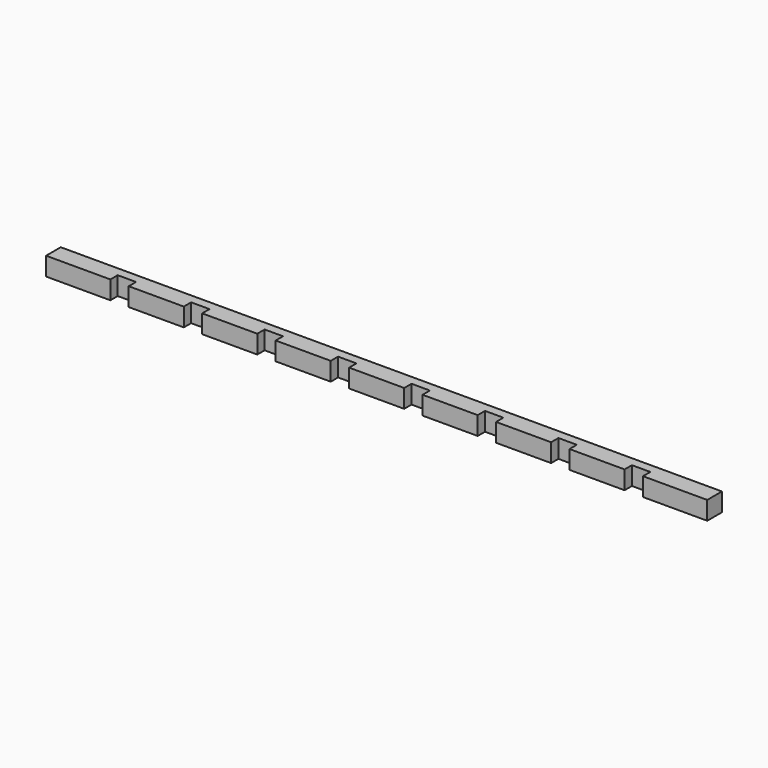
from build123d import *

# Parameters (mm, degrees)
F1_DEPTH = 25.4
F0_W     = 482.6
F0_H     = 50.8
F0_W_2   = 152.4
F2_W     = 2438.4
F2_H     = 50.8
F3_DEPTH = 25.4
F5_W     = 304.8
F5_H     = 50.8
F6_DEPTH = 63.5
F7_ANGLE = -90


with BuildPart() as f1:
    # F0 (on Top) → F1 (new body)
    with BuildSketch(Plane.XY):
        Polygon((-76.2, 0), (0, 0), (76.2, 0), (76.2, 50.8), (-76.2, 50.8), align=None)
    extrude(amount=F1_DEPTH)


with BuildPart() as f1b:
    # F0 (on Top) → F1, piece 2 (new body)
    with BuildSketch(Plane.XY):
        with Locations((-977.9, 25.4)):
            Rectangle(F0_W, F0_H)
    extrude(amount=F1_DEPTH)


with BuildPart() as f1c:
    # F0 (on Top) → F1, piece 3 (new body)
    with BuildSketch(Plane.XY):
        with Locations((977.9, 25.4)):
            Rectangle(F0_W, F0_H)
    extrude(amount=F1_DEPTH)


with BuildPart() as f1d:
    # F0 (on Top) → F1, piece 4 (new body)
    with BuildSketch(Plane.XY):
        with Locations((203.2, 25.4)):
            Rectangle(F0_W_2, F0_H)
    extrude(amount=F1_DEPTH)


with BuildPart() as f1e:
    # F0 (on Top) → F1, piece 5 (new body)
    with BuildSketch(Plane.XY):
        with Locations((406.4, 25.4)):
            Rectangle(F0_W_2, F0_H)
    extrude(amount=F1_DEPTH)


with BuildPart() as f1f:
    # F0 (on Top) → F1, piece 6 (new body)
    with BuildSketch(Plane.XY):
        with Locations((609.6, 25.4)):
            Rectangle(F0_W_2, F0_H)
    extrude(amount=F1_DEPTH)


with BuildPart() as f1g:
    # F0 (on Top) → F1, piece 7 (new body)
    with BuildSketch(Plane.XY):
        with Locations((-203.2, 25.4)):
            Rectangle(F0_W_2, F0_H)
    extrude(amount=F1_DEPTH)


with BuildPart() as f1h:
    # F0 (on Top) → F1, piece 8 (new body)
    with BuildSketch(Plane.XY):
        with Locations((-406.4, 25.4)):
            Rectangle(F0_W_2, F0_H)
    extrude(amount=F1_DEPTH)


with BuildPart() as f1i:
    # F0 (on Top) → F1, piece 9 (new body)
    with BuildSketch(Plane.XY):
        with Locations((-609.6, 25.4)):
            Rectangle(F0_W_2, F0_H)
    extrude(amount=F1_DEPTH)


with BuildPart() as f3:
    # F2 (on face) → F3 (new body)
    with BuildSketch(Plane.XY.offset(25.4)):
        with Locations((0, 25.4)):
            Rectangle(F2_W, F2_H)
    extrude(amount=F3_DEPTH)


with BuildPart() as f1b_1:
    add(f1b.part)

    # F4: union F1c, F1, F1d, F1e, F1f, F1g, F1h, F1i, F3
    add(f1c.part)
    add(f1.part)
    add(f1d.part)
    add(f1e.part)
    add(f1f.part)
    add(f1g.part)
    add(f1h.part)
    add(f1i.part)
    add(f3.part)

    # F5 (on face) → F6 (cut)
    with BuildSketch(Plane.XZ):
        with Locations((-1066.8, 25.4)):
            Rectangle(F5_W, F5_H)
        with Locations((1066.8, 25.4)):
            Rectangle(F5_W, F5_H)
    extrude(amount=-F6_DEPTH, mode=Mode.SUBTRACT)


with BuildPart() as f1b_2:
    # F7: moved
    add(f1b_1.part.rotate(Axis((0, 0, 50.8), (1, 0, 0)), F7_ANGLE))


solid = f1b_2.part
